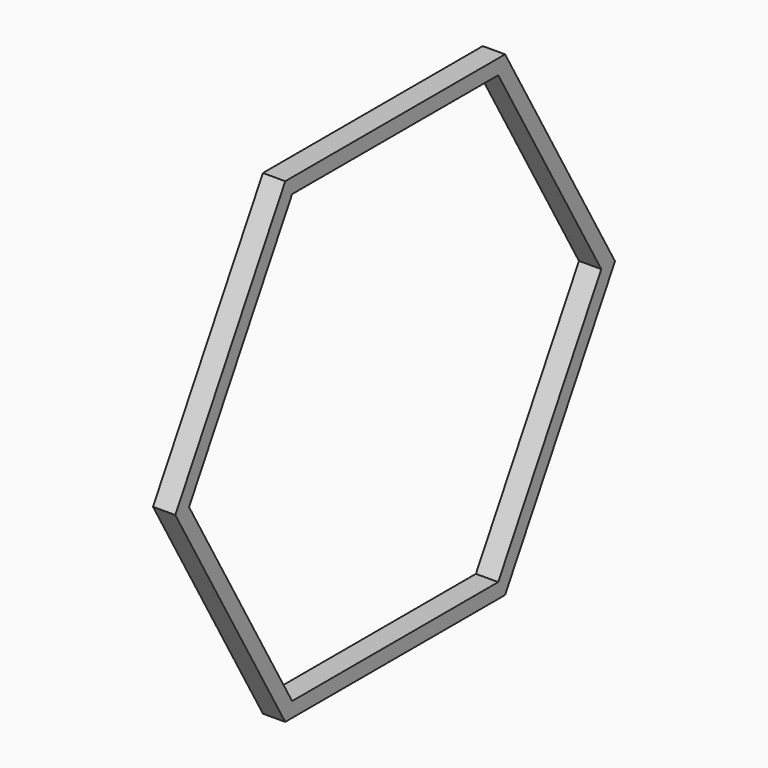
from build123d import *

# Parameters (mm, degrees)
F1_DEPTH = 1.905


with BuildPart() as f1:
    # F0 (on Right) → F1 (new body, symmetric)
    with BuildSketch(Plane.YZ):
        Polygon((-46.92703, 0), (-23.463515, -40.64), (23.463515, -40.64), (46.92703, 0), (23.463515, 40.64), (-23.463515, 40.64), align=None)
        Polygon((-43.994091, 0), (-21.997045, 38.1), (21.997045, 38.1), (43.994091, 0), (21.997045, -38.1), (-21.997045, -38.1), align=None, mode=Mode.SUBTRACT)
    extrude(amount=F1_DEPTH, both=True)


solid = f1.part
